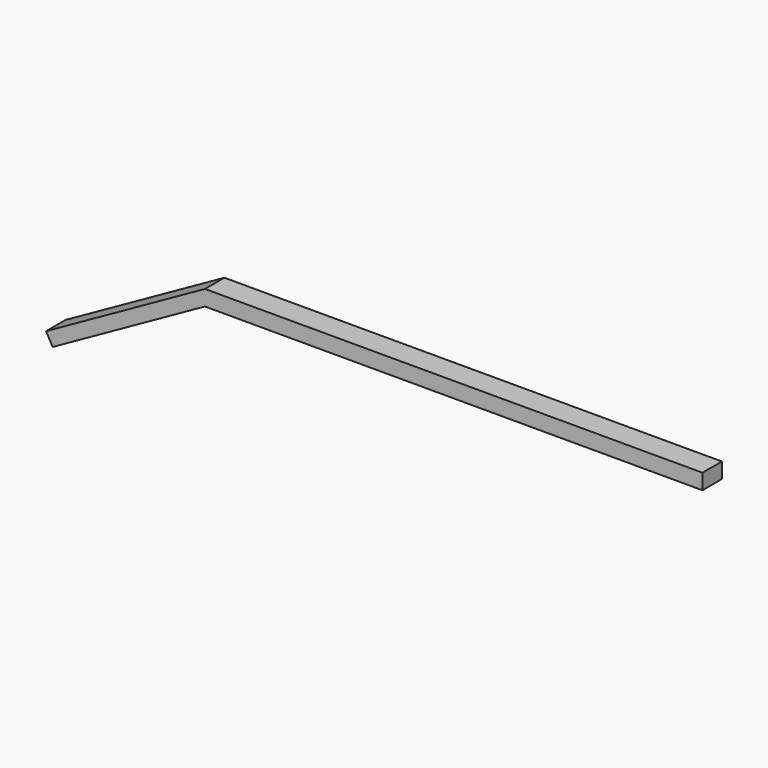
from build123d import *

# Parameters (mm, degrees)
F1_DEPTH = 5.08
F4_DEPTH = 5.08
F7_DEPTH = 5.08


with BuildPart() as f1:
    # F0 (on Front) → F1 (new body)
    with BuildSketch(Plane.XZ):
        Polygon((49.2544993758, 7.0634965241), (49.2544956505, 10.4342158884), (-41.1312952638, 10.4342158884), (-69.9499547482, 27.4472031742), (-71.8305518383, 24.2616199337), (-42.6982863529, 7.0634965241), align=None)
    extrude(amount=F1_DEPTH)


with BuildPart() as f4:
    # F3 (on Front) → F4 (new body)
    with BuildSketch(Plane.XZ):
        Polygon((-31.1960466206, 8.5284151137), (64.4119828939, 8.5284151137), (63.5142549872, 13.9479198755), (-31.1960466206, 13.9479198755), (-66.7409883864, -2.9896041492), (-64.6364092827, -7.406255696), align=None)
    extrude(amount=F4_DEPTH)


with BuildPart() as f7:
    # F6 (on Front) → F7 (new body)
    with BuildSketch(Plane.XZ):
        Polygon((61.6721026599, 7.6853110745), (61.6721026599, 10.9154162928), (-42.2426611185, 10.9154162928), (-75.4255279899, -7.6407911256), (-74.0495196081, -10.1014180153), (-42.2426611185, 7.6853110745), align=None)
    extrude(amount=F7_DEPTH)


solid = f7.part
